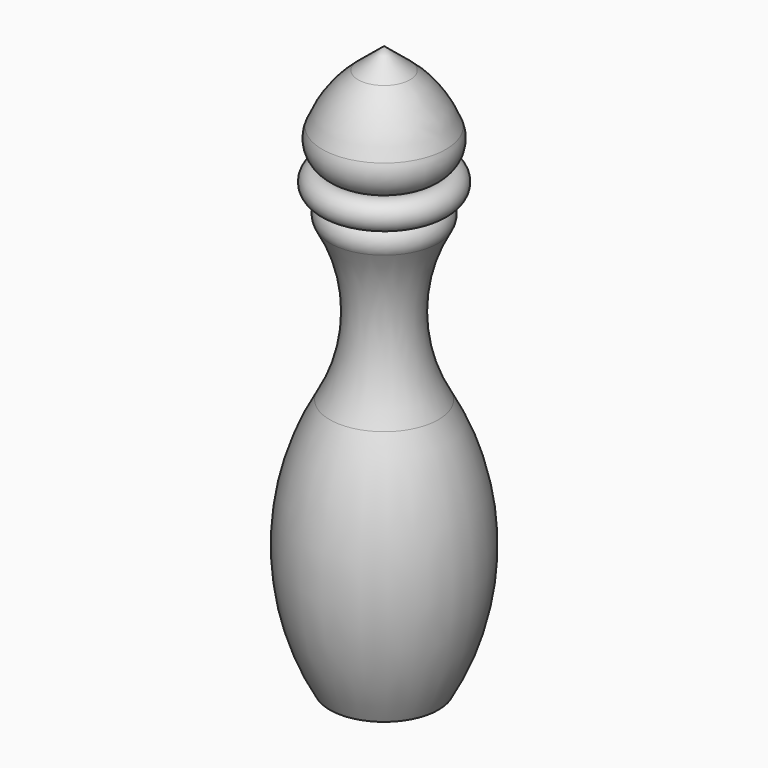
from build123d import *


with BuildPart() as f1:
    # F0 (on Front) → F1 (revolve)
    with BuildSketch(Plane.XZ):
        with BuildLine():
            ThreePointArc((7.675481, -22), (7.938249, -20.247432), (6.938749, -18.784031))
            ThreePointArc((6.938749, -18.784031), (9.5, -16.864396), (6.938749, -14.944761))
            ThreePointArc((6.938749, -14.944761), (8.760968, -12.808038), (8.729484, -10))
            ThreePointArc((8.729484, -10), (6.646339, -6.172322), (3.658534, -3))
            Line((3.658534, -3), (0, 0))
            Line((0, 0), (0, -80))
            Line((0, -80), (7.675481, -80))
            ThreePointArc((7.675481, -80), (12.5, -61.967592), (7.675481, -43.935184))
            ThreePointArc((7.675481, -43.935184), (4.741134, -32.967592), (7.675481, -22))
        make_face()
    revolve(axis=Axis((0, 0, -40), (0, 0, 1)))


solid = f1.part
